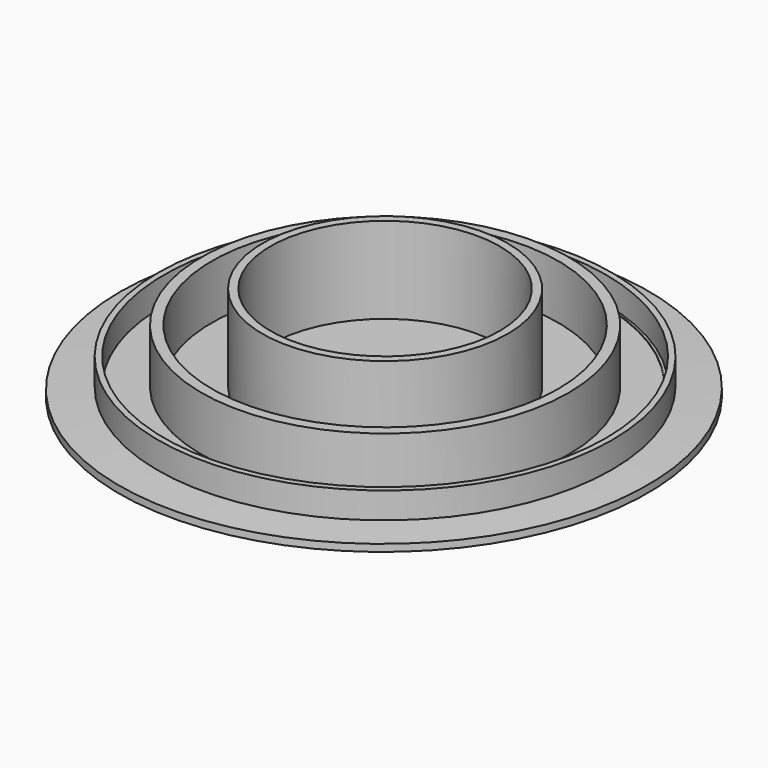
from build123d import *

# Parameters (mm, degrees)
F2_R     = 2016.870479
F2_R_2   = 1965.077709
F3_DEPTH = 325.12
F2_R_3   = 1632.911721
F2_R_4   = 1540.026415
F4_DEPTH = 571.5
F2_R_5   = 1090.59748
F2_R_6   = 1019.494864
F5_DEPTH = 855.98


with BuildPart() as f1:
    # F0 (on Front) → F1 (revolve)
    with BuildSketch(Plane.XZ):
        Polygon((-805.616917, 0.797942), (-346.130917, 0.797942), (-346.130917, 28.737942), (-407.090917, 31.464389), (-407.090917, 85.649182), (-805.616917, 63.789942), align=None)
    revolve(axis=Axis((1541.172492, 0, 76.569489), (0.003146, 0, -0.999995)))


with BuildPart() as f3:
    # F2 (on Top) → F3 (new body)
    with BuildSketch(Plane.XY):
        with Locations((1551.826477, 0)):
            Circle(F2_R)
        with Locations((1551.826477, 0)):
            Circle(F2_R_2, mode=Mode.SUBTRACT)
    extrude(amount=F3_DEPTH)


with BuildPart() as f4:
    # F2 (on Top) → F4 (new body)
    with BuildSketch(Plane.XY):
        with Locations((1551.826477, 0)):
            Circle(F2_R_3)
        with Locations((1551.826477, 0)):
            Circle(F2_R_4, mode=Mode.SUBTRACT)
    extrude(amount=F4_DEPTH)


with BuildPart() as f5:
    # F2 (on Top) → F5 (new body)
    with BuildSketch(Plane.XY):
        with Locations((1551.826477, 0)):
            Circle(F2_R_5)
        with Locations((1551.826477, 0)):
            Circle(F2_R_6, mode=Mode.SUBTRACT)
    extrude(amount=F5_DEPTH)


with BuildPart() as f6:
    # F0 (on Front) → F6 (revolve)
    with BuildSketch(Plane.XZ):
        Polygon((-406.934291, 88.58078), (-407.090917, 85.649182), (1541.089083, 85.649182), (1541.089083, 88.58078), align=None)
    revolve(axis=Axis((1551.826477, 0, 0), (0, 0, -1)))


solid = Compound([f1.part, f3.part, f4.part, f5.part, f6.part])
